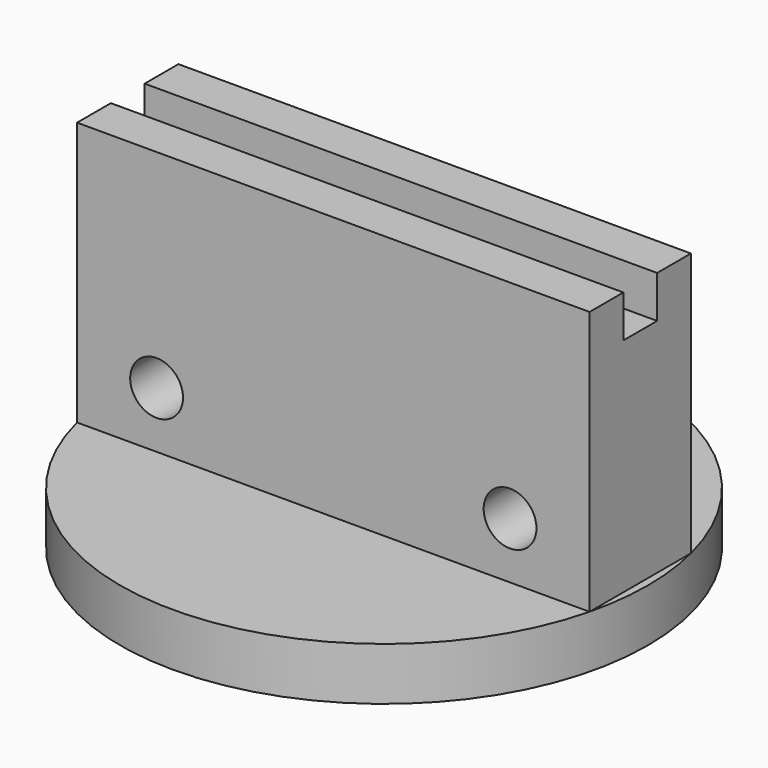
from build123d import *

# Parameters (mm, degrees)
F0_R     = 25
F1_DEPTH = 5
F2_W     = 48.538644
F2_H     = 12
F3_DEPTH = 25
F4_W     = 48.538644
F4_H     = 4
F5_DEPTH = 4
F6_R     = 2.5
F7_DEPTH = 31.001


with BuildPart() as f1:
    # F0 (on Top) → F1 (new body)
    with BuildSketch(Plane.XY):
        Circle(F0_R)
    extrude(amount=F1_DEPTH)

    # F2 (on face) → F3 (join)
    with BuildSketch(Plane.XY.offset(5)):
        Rectangle(F2_W, F2_H)
    extrude(amount=F3_DEPTH)

    # F4 (on face) → F5 (cut)
    with BuildSketch(Plane.XY.offset(30)):
        Rectangle(F4_W, F4_H)
    extrude(amount=-F5_DEPTH, mode=Mode.SUBTRACT)

    # F6 (on face) → F7 (cut, through all)
    with BuildSketch(Plane.XZ.offset(6)):
        with Locations((-16.73882, 10.326263)):
            Circle(F6_R)
        with Locations((16.73882, 10.326263)):
            Circle(F6_R)
    extrude(amount=-F7_DEPTH, mode=Mode.SUBTRACT)


solid = f1.part
